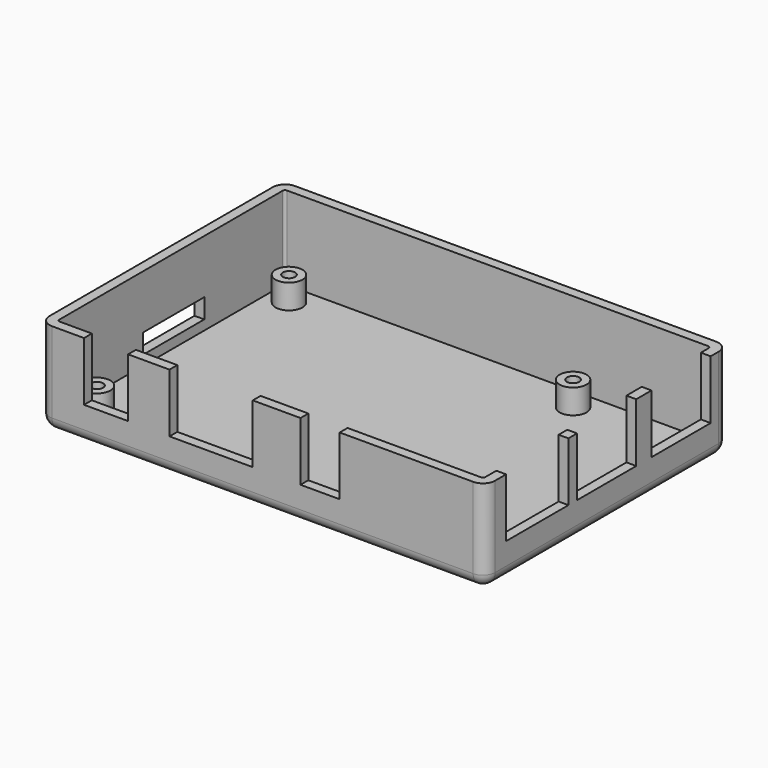
from build123d import *

# Parameters (mm, degrees)
F1_DEPTH = 2
F2_DEPTH = 19
F3_R     = 2.75
F3_R_2   = 1.25
F4_DEPTH = 5
F5_W     = 9
F5_H     = 2
F5_W_2   = 17
F5_W_3   = 8
F5_W_4   = 2
F5_H_2   = 15.1
F5_H_3   = 15.9
F6_DEPTH = 12
F7_W     = 15.6
F7_H     = 4
F8_DEPTH = 5
F9_R     = 2.5


with BuildPart() as f1:
    # F0 (on Top) → F1 (new body)
    with BuildSketch(Plane.XY):
        with BuildLine():
            ThreePointArc((0, 2.5), (0.732233047, 0.732233047), (2.5, 0))
            Line((2.5, 0), (88.5, 0))
            ThreePointArc((88.5, 0), (90.267766953, 0.732233047), (91, 2.5))
            Line((91, 2.5), (91, 59.5))
            ThreePointArc((91, 59.5), (90.267766953, 61.267766953), (88.5, 62))
            Line((88.5, 62), (2.5, 62))
            ThreePointArc((2.5, 62), (0.732233047, 61.267766953), (0, 59.5))
            Line((0, 59.5), (0, 2.5))
        make_face()
        with BuildLine():
            ThreePointArc((2, 59.5), (2.1464466094, 59.8535533906), (2.5, 60))
            Line((2.5, 60), (88.5, 60))
            ThreePointArc((88.5, 60), (88.8535533906, 59.8535533906), (89, 59.5))
            Line((89, 59.5), (89, 2.5))
            ThreePointArc((89, 2.5), (88.8535533906, 2.1464466094), (88.5, 2))
            Line((88.5, 2), (2.5, 2))
            ThreePointArc((2.5, 2), (2.1464466094, 2.1464466094), (2, 2.5))
            Line((2, 2.5), (2, 59.5))
        make_face(mode=Mode.SUBTRACT)
        with BuildLine():
            Line((88.5, 60), (2.5, 60))
            ThreePointArc((2.5, 60), (2.1464466094, 59.8535533906), (2, 59.5))
            Line((2, 59.5), (2, 2.5))
            ThreePointArc((2, 2.5), (2.1464466094, 2.1464466094), (2.5, 2))
            Line((2.5, 2), (88.5, 2))
            ThreePointArc((88.5, 2), (88.8535533906, 2.1464466094), (89, 2.5))
            Line((89, 2.5), (89, 59.5))
            ThreePointArc((89, 59.5), (88.8535533906, 59.8535533906), (88.5, 60))
        make_face()
    extrude(amount=F1_DEPTH)

    # F0 (on Top) → F2 (join)
    with BuildSketch(Plane.XY):
        with BuildLine():
            ThreePointArc((0, 2.5), (0.732233047, 0.732233047), (2.5, 0))
            Line((2.5, 0), (88.5, 0))
            ThreePointArc((88.5, 0), (90.267766953, 0.732233047), (91, 2.5))
            Line((91, 2.5), (91, 59.5))
            ThreePointArc((91, 59.5), (90.267766953, 61.267766953), (88.5, 62))
            Line((88.5, 62), (2.5, 62))
            ThreePointArc((2.5, 62), (0.732233047, 61.267766953), (0, 59.5))
            Line((0, 59.5), (0, 2.5))
        make_face()
        with BuildLine():
            ThreePointArc((2, 59.5), (2.1464466094, 59.8535533906), (2.5, 60))
            Line((2.5, 60), (88.5, 60))
            ThreePointArc((88.5, 60), (88.8535533906, 59.8535533906), (89, 59.5))
            Line((89, 59.5), (89, 2.5))
            ThreePointArc((89, 2.5), (88.8535533906, 2.1464466094), (88.5, 2))
            Line((88.5, 2), (2.5, 2))
            ThreePointArc((2.5, 2), (2.1464466094, 2.1464466094), (2, 2.5))
            Line((2, 2.5), (2, 59.5))
        make_face(mode=Mode.SUBTRACT)
    extrude(amount=F2_DEPTH)

    # F3 (on face) → F4 (join)
    with BuildSketch(Plane.XY.offset(2)):
        with Locations((6.5, 55.5)):
            Circle(F3_R)
        with Locations((6.5, 55.5)):
            Circle(F3_R_2, mode=Mode.SUBTRACT)
        with Locations((64.5, 55.5)):
            Circle(F3_R)
        with Locations((64.5, 55.5)):
            Circle(F3_R_2, mode=Mode.SUBTRACT)
        with Locations((6.5, 6.5)):
            Circle(F3_R)
        with Locations((6.5, 6.5)):
            Circle(F3_R_2, mode=Mode.SUBTRACT)
        with Locations((64.5, 6.5)):
            Circle(F3_R)
        with Locations((64.5, 6.5)):
            Circle(F3_R_2, mode=Mode.SUBTRACT)
    extrude(amount=F4_DEPTH)

    # F5 (on face) → F6 (cut)
    with BuildSketch(Plane.XY.offset(19)):
        with Locations((13.55, 1)):
            Rectangle(F5_W, F5_H)
        with Locations((35, 1)):
            Rectangle(F5_W_2, F5_H)
        with Locations((57.25, 1)):
            Rectangle(F5_W_3, F5_H)
        with Locations((90, 49.95)):
            Rectangle(F5_W_4, F5_H_2)
        with Locations((90, 30.95)):
            Rectangle(F5_W_4, F5_H_2)
        with Locations((90, 13.25)):
            Rectangle(F5_W_4, F5_H_3)
    extrude(amount=-F6_DEPTH, mode=Mode.SUBTRACT)

    # F7 (on face) → F8 (cut)
    with BuildSketch(Plane(origin=(0, 0, 0), x_dir=(0, -1, 0), z_dir=(-1, 0, 0))):
        with Locations((-31.7, 6)):
            Rectangle(F7_W, F7_H)
    extrude(amount=-F8_DEPTH, mode=Mode.SUBTRACT)

    # F9
    f9_edges = [f1.edges().sort_by_distance(p)[0] for p in [
        (45.5, 0, 0),
    ]]
    fillet(f9_edges, radius=F9_R)


solid = f1.part
